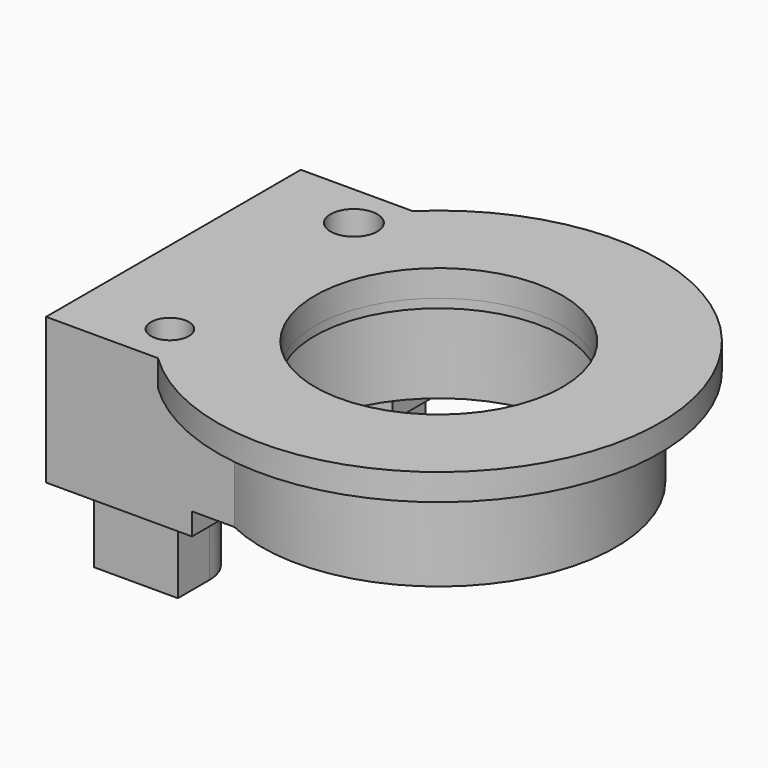
from build123d import *

# Parameters (mm, degrees)
SKETCH_R        = 20
SKETCH_R_2      = 16
PAD_DEPTH       = 11
SKETCH001_R     = 25
PAD001_DEPTH    = 3
SKETCH002_R     = 16
SKETCH002_R_2   = 14
PAD002_DEPTH    = 1
SKETCH003_R     = 14
POCKET_DEPTH    = 3.001
SKETCH004_R     = 16
PAD003_DEPTH    = 14
PAD004_DEPTH    = 2.5
PAD005_DEPTH    = 7
SKETCH007_R     = 2.15
SKETCH007_R_2   = 2.65
POCKET001_DEPTH = 23.501


with BuildPart() as part:
    # Sketch → Pad (new body)
    with BuildSketch(Plane.XY):
        Circle(SKETCH_R)
        Circle(SKETCH_R_2, mode=Mode.SUBTRACT)
    extrude(amount=PAD_DEPTH)

    # Sketch001 (on Face4 of Pad) → Pad001 (join)
    with BuildSketch(Plane.XY.offset(11)):
        Circle(SKETCH001_R)
    extrude(amount=PAD001_DEPTH)

    # Sketch002 (on Face7 of Pad001) → Pad002 (join)
    with BuildSketch(Plane(origin=(0, 0, 11), x_dir=(1, 0, 0), z_dir=(0, 0, -1))):
        Circle(SKETCH002_R)
        Circle(SKETCH002_R_2, mode=Mode.SUBTRACT)
    extrude(amount=PAD002_DEPTH)

    # Sketch003 (on Face9 of Pad002) → Pocket (cut, through all)
    with BuildSketch(Plane(origin=(0, 0, 11), x_dir=(1, 0, 0), z_dir=(0, 0, -1))):
        Circle(SKETCH003_R)
    extrude(amount=-POCKET_DEPTH, mode=Mode.SUBTRACT)

    # Sketch004 (on Face6 of Pocket) → Pad003 (join)
    with BuildSketch(Plane(origin=(0, 0, 0), x_dir=(1, 0, 0), z_dir=(0, 0, -1))):
        with BuildLine():
            ThreePointArc((-8.717798, -18), (20, 0), (-8.717798, 18))
            Line((-30, 18), (-8.717798, 18))
            Line((-30, -18), (-30, 18))
            Line((-8.717798, -18), (-30, -18))
        make_face()
        Circle(SKETCH004_R, mode=Mode.SUBTRACT)
    extrude(amount=-PAD003_DEPTH)

    # Sketch005 (on Face9 of Pad003) → Pad004 (join)
    with BuildSketch(Plane(origin=(0, 0, 0), x_dir=(1, 0, 0), z_dir=(0, 0, -1))):
        with BuildLine():
            Line((-30, 18), (-13.5, 18))
            Line((-13.5, 18), (-13.5, 10.331989))
            ThreePointArc((-13.5, 10.331989), (-17, 0), (-13.5, -10.331989))
            Line((-13.5, -10.331989), (-13.5, -18))
            Line((-13.5, -18), (-30, -18))
            Line((-30, -18), (-30, 18))
        make_face()
    extrude(amount=PAD004_DEPTH)

    # Sketch006 (on Face19 of Pad004) → Pad005 (join)
    with BuildSketch(Plane(origin=(0, 0, -2.5), x_dir=(1, 0, 0), z_dir=(0, 0, -1))):
        with BuildLine():
            Line((-27.962286, -8.5), (-20.00003, -8.5))
            ThreePointArc((-15.5, -13), (-16.81803, -9.818009), (-20.00003, -8.5))
            Line((-15.5, -13), (-15.5, -17.5))
            Line((-27.962286, -17.5), (-15.5, -17.5))
            Line((-27.962286, -17.5), (-27.962286, -8.5))
        make_face()
        with BuildLine():
            Line((-25, 17.5), (-20, 17.5))
            Line((-20, 17.5), (-15.5, 17.5))
            Line((-15.5, 13), (-15.5, 17.5))
            ThreePointArc((-20, 8.5), (-16.818019, 9.818019), (-15.5, 13))
            Line((-20, 8.5), (-25, 8.5))
            Line((-25, 8.5), (-25, 17.5))
        make_face()
    extrude(amount=PAD005_DEPTH)

    # Sketch007 → Pocket001 (cut, through all)
    with BuildSketch(Plane(origin=(0, 0, -9.5), x_dir=(1, 0, 0), z_dir=(0, 0, -1))):
        with Locations((-20, 13)):
            Circle(SKETCH007_R)
        with Locations((-20, -13)):
            Circle(SKETCH007_R_2)
    extrude(amount=-POCKET001_DEPTH, mode=Mode.SUBTRACT)


solid = part.part
